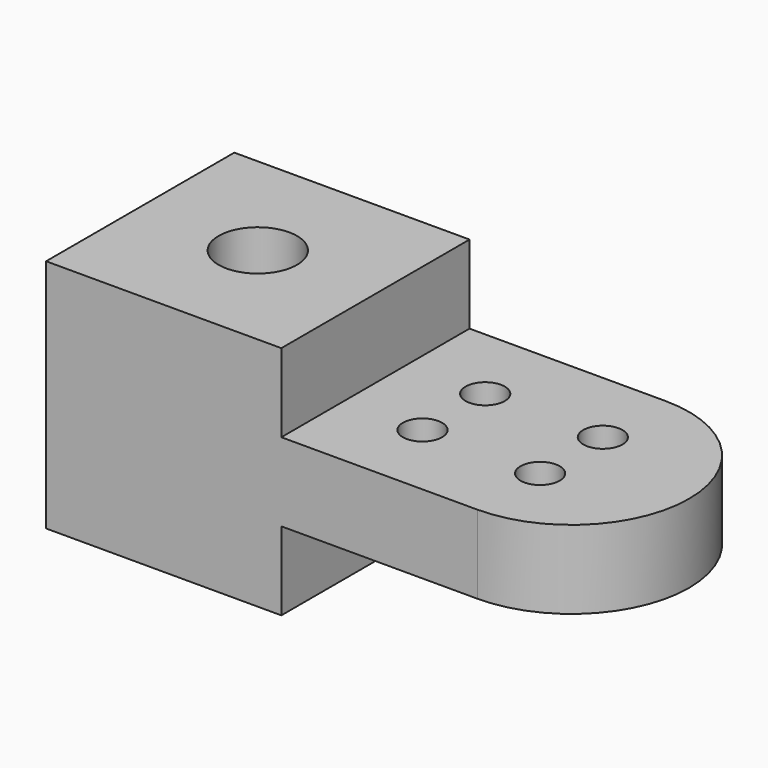
from build123d import *

# Parameters (mm, degrees)
F1_DEPTH = 19.05
F2_W     = 31.75
F2_H     = 12.7
F2_W_2   = 19.05
F3_DEPTH = 50.8
F4_R     = 3.175
F5_DEPTH = 25.4
F7_DEPTH = 38.1


with BuildPart() as f1:
    # F0 (on Top) → F1 (new body, symmetric)
    with BuildSketch(Plane.XY):
        with BuildLine():
            Line((0, 19.05), (0, 0))
            Line((0, 0), (0, -19.05))
            Line((0, -19.05), (69.85, -19.05))
            ThreePointArc((69.85, -19.05), (88.9, 0), (69.85, 19.05))
            Line((69.85, 19.05), (0, 19.05))
        make_face()
    extrude(amount=F1_DEPTH, both=True)

    # F2 (on face) → F3 (cut)
    with BuildSketch(Plane.XZ.offset(19.05)):
        with Locations((53.975, 12.7)):
            Rectangle(F2_W, F2_H)
        with Locations((79.375, 12.7)):
            Rectangle(F2_W_2, F2_H)
        with Locations((53.975, -12.7)):
            Rectangle(F2_W, F2_H)
        with Locations((79.375, -12.7)):
            Rectangle(F2_W_2, F2_H)
    extrude(amount=-F3_DEPTH, mode=Mode.SUBTRACT)

    # F4 (on face) → F5 (cut)
    with BuildSketch(Plane.XY.offset(6.35)):
        with Locations((50.8, 6.35)):
            Circle(F4_R)
        with Locations((69.85, 6.35)):
            Circle(F4_R)
        with Locations((69.85, -6.35)):
            Circle(F4_R)
        with Locations((50.8, -6.35)):
            Circle(F4_R)
    extrude(amount=-F5_DEPTH, mode=Mode.SUBTRACT)

    # F6 (on face) → F7 (cut)
    with BuildSketch(Plane.XY.offset(19.05)):
        with BuildLine():
            Line((12.7, 0), (25.4, 0))
            ThreePointArc((25.4, 0), (19.05, 6.35), (12.7, 0))
        make_face()
        with BuildLine():
            ThreePointArc((12.7, 0), (19.05, -6.35), (25.4, 0))
            Line((25.4, 0), (12.7, 0))
        make_face()
    extrude(amount=-F7_DEPTH, mode=Mode.SUBTRACT)


solid = f1.part
